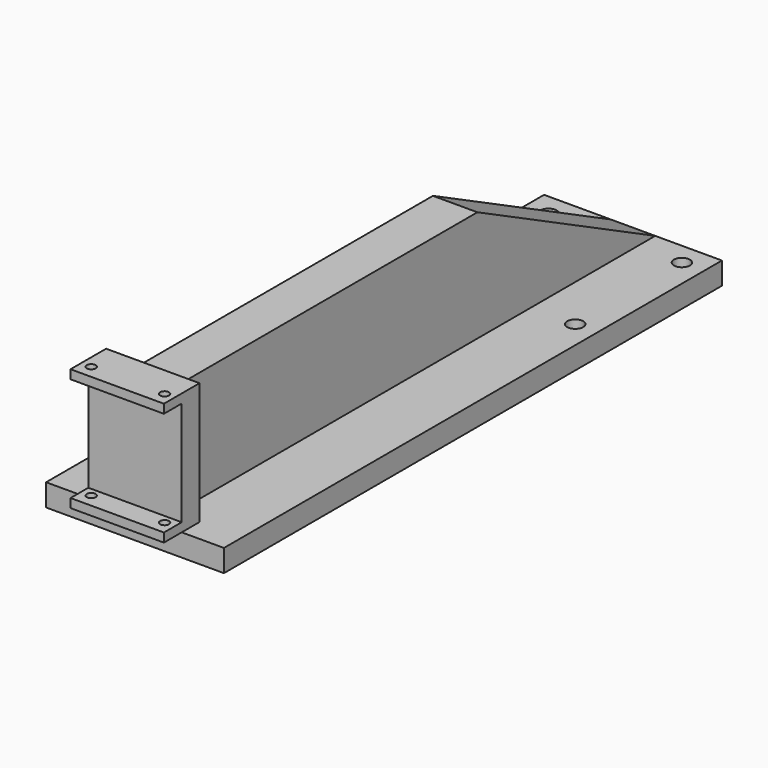
from build123d import *

# Parameters (mm, degrees)
SKETCH_W        = 40
SKETCH_H        = 140
SKETCH_R        = 1.8
PAD_DEPTH       = 5
SKETCH001_W     = 21
SKETCH001_H     = 10
PAD001_DEPTH    = 2
SKETCH002_W     = 21
SKETCH002_H     = 5
PAD002_DEPTH    = 25.5
SKETCH003_W     = 21
SKETCH003_H     = 2
PAD003_DEPTH    = 5
SKETCH004_R     = 1
POCKET_DEPTH    = 100
SKETCH005_W     = 10
SKETCH005_H     = 135
PAD004_DEPTH    = 25
POCKET001_DEPTH = 10


with BuildPart() as part:
    # Sketch → Pad (new body)
    with BuildSketch(Plane.XY):
        with Locations((20, 70)):
            Rectangle(SKETCH_W, SKETCH_H)
        with Locations((5, 135)):
            Circle(SKETCH_R, mode=Mode.SUBTRACT)
        with Locations((35, 135)):
            Circle(SKETCH_R, mode=Mode.SUBTRACT)
        with Locations((5, 105)):
            Circle(SKETCH_R, mode=Mode.SUBTRACT)
        with Locations((35, 105)):
            Circle(SKETCH_R, mode=Mode.SUBTRACT)
    extrude(amount=PAD_DEPTH)

    # Sketch001 (on Face10 of Pad) → Pad001 (join)
    with BuildSketch(Plane.XY.offset(5)):
        with Locations((20, 0)):
            Rectangle(SKETCH001_W, SKETCH001_H)
    extrude(amount=PAD001_DEPTH)

    # Sketch002 (on Face16 of Pad001) → Pad002 (join)
    with BuildSketch(Plane.XY.offset(7)):
        with Locations((20, 2.5)):
            Rectangle(SKETCH002_W, SKETCH002_H)
    extrude(amount=PAD002_DEPTH)

    # Sketch003 (on Face20 of Pad002) → Pad003 (join)
    with BuildSketch(Plane.XZ):
        with Locations((20, 31.5)):
            Rectangle(SKETCH003_W, SKETCH003_H)
    extrude(amount=PAD003_DEPTH)

    # Sketch004 (on Face25 of Pad003) → Pocket (cut)
    with BuildSketch(Plane.XY.offset(32.5)):
        with Locations((11.75, -2)):
            Circle(SKETCH004_R)
        with Locations((28.25, -2)):
            Circle(SKETCH004_R)
    extrude(amount=-POCKET_DEPTH, mode=Mode.SUBTRACT)

    # Sketch005 (on Face5 of Pocket) → Pad004 (join)
    with BuildSketch(Plane.XY.offset(5)):
        with Locations((20, 72.5)):
            Rectangle(SKETCH005_W, SKETCH005_H)
    extrude(amount=PAD004_DEPTH)

    # Sketch006 (on Face16 of Pad004) → Pocket001 (cut)
    with BuildSketch(Plane.YZ.offset(25)):
        Polygon((90, 30), (140, 5), (160, 5), (160, 50), (90, 50), align=None)
    extrude(amount=-POCKET001_DEPTH, mode=Mode.SUBTRACT)


solid = part.part
